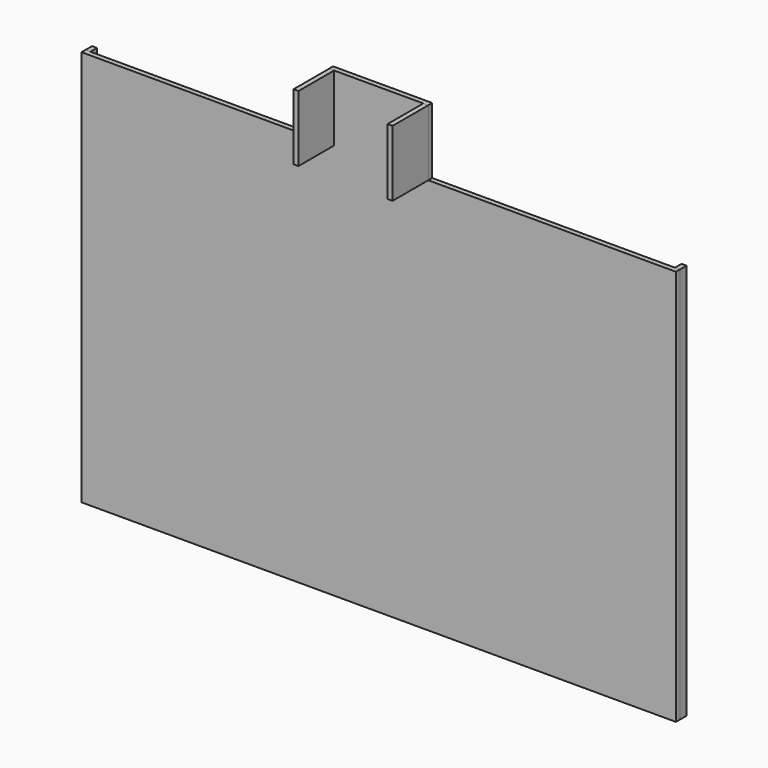
from build123d import *

# Parameters (mm, degrees)
F1_DEPTH = 7.62
F2_W     = 68.58
F2_H     = 101.6
F3_DEPTH = 7.62
F4_W     = 68.58
F4_H     = 101.6
F5_DEPTH = 7.62
F6_W     = 12.7
F6_H     = 609.6
F7_DEPTH = 7.62
F8_W     = 12.7
F8_H     = 609.6
F9_DEPTH = 7.62


with BuildPart() as f1:
    # F0 (on Front) → F1 (new body)
    with BuildSketch(Plane.XZ):
        Polygon((0, 609.6), (0, 0), (914.4, 0), (914.4, 609.6), (533.4, 609.6), (533.4, 711.2), (381, 711.2), (381, 609.6), align=None)
    extrude(amount=F1_DEPTH)


with BuildPart() as f3:
    # F2 (on face) → F3 (new body)
    with BuildSketch(Plane(origin=(381, 0, 0), x_dir=(0, -1, 0), z_dir=(-1, 0, 0))):
        with Locations((41.91, 660.4)):
            Rectangle(F2_W, F2_H)
    extrude(amount=-F3_DEPTH)


with BuildPart() as f5:
    # F4 (on face) → F5 (new body)
    with BuildSketch(Plane.YZ.offset(533.4)):
        with Locations((-41.91, 660.4)):
            Rectangle(F4_W, F4_H)
    extrude(amount=-F5_DEPTH)


with BuildPart() as f7:
    # F6 (on face) → F7 (new body)
    with BuildSketch(Plane.YZ.offset(914.4)):
        with Locations((6.35, 304.8)):
            Rectangle(F6_W, F6_H)
    extrude(amount=-F7_DEPTH)


with BuildPart() as f9:
    # F8 (on face) → F9 (new body)
    with BuildSketch(Plane(origin=(0, 0, 0), x_dir=(0, -1, 0), z_dir=(-1, 0, 0))):
        with Locations((-6.35, 304.8)):
            Rectangle(F8_W, F8_H)
    extrude(amount=-F9_DEPTH)


solid = Compound([f1.part, f3.part, f5.part, f7.part, f9.part])
